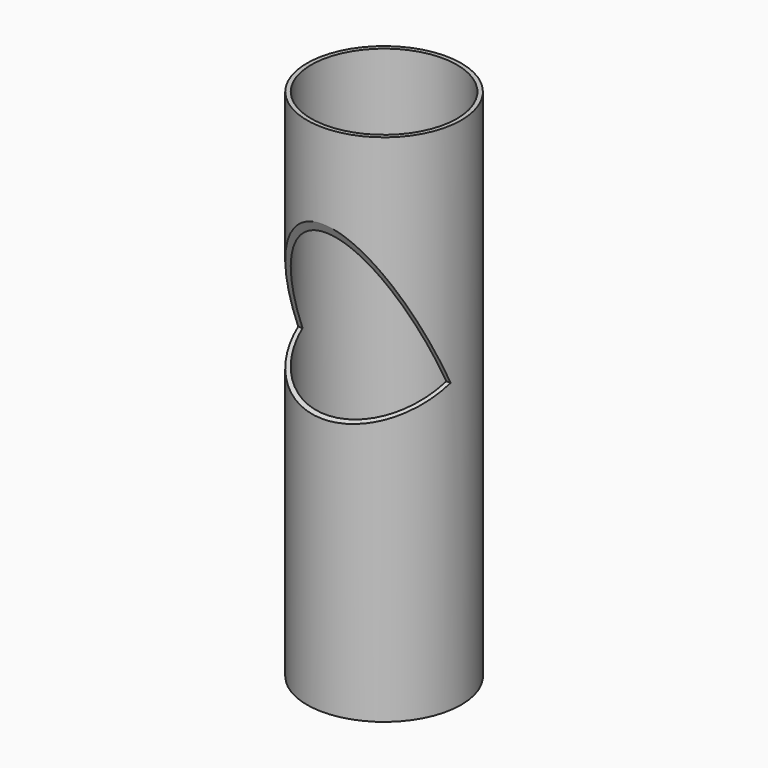
from build123d import *

# Parameters (mm, degrees)
F0_R     = 45
F1_DEPTH = 150
F2_T     = -2.5
F4_DEPTH = 50


with BuildPart() as f1:
    # F0 (on Top) → F1 (new body, symmetric)
    with BuildSketch(Plane.XY):
        Circle(F0_R)
    extrude(amount=F1_DEPTH, both=True)

    # F2
    f2_openings = [f1.faces().sort_by_distance(p)[0] for p in [
        (0, 0, 150),
        (0, 0, -150),
    ]]
    offset(amount=F2_T, openings=f2_openings)

    # F3 (on Right) → F4 (cut, symmetric)
    with BuildSketch(Plane.YZ):
        Polygon((-45, 100.388468), (-45, 0.388468), (-7, 17.892315), align=None)
    extrude(amount=F4_DEPTH, both=True, mode=Mode.SUBTRACT)


solid = f1.part
